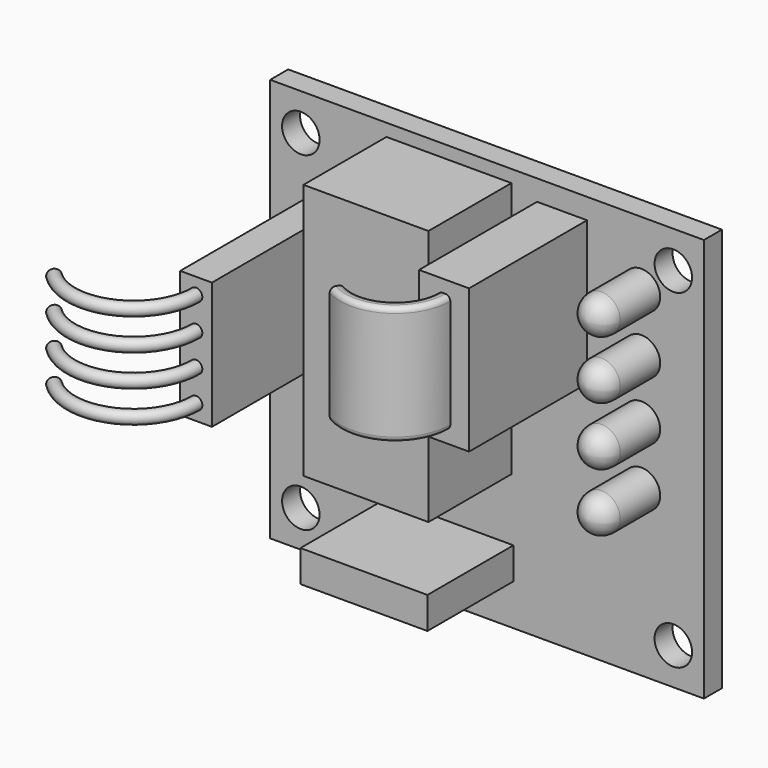
from build123d import *

# Parameters (mm, degrees)
SKETCH_W               = 34.7
SKETCH_H               = 32.3
SKETCH_R               = 1.5
PAD_DEPTH              = 1.8
SKETCH001_W            = 4
SKETCH001_H            = 11.5
PAD001_DEPTH           = 11.8
PAD002_DEPTH           = 9.5
FILLET_R               = 0.4
LINEARPATTERN_COUNT    = 4
LINEARPATTERN_PITCH    = 4.666667
SKETCH004_W            = 10
SKETCH004_H            = 20.5
PAD003_DEPTH           = 8.3
SKETCH005_W            = 2.54
SKETCH005_H            = 2.54
PAD004_DEPTH           = 16.5
SKETCH006_R            = 0.5
LINEARPATTERN001_COUNT = 4
LINEARPATTERN001_PITCH = 2.54
SKETCH008_W            = 10.16
SKETCH008_H            = 2.54
PAD005_DEPTH           = 8.6
BODY_PLACEMENT_ANGLE   = 90


with BuildPart() as part:
    # Sketch → Pad (new body)
    with BuildSketch(Plane.XY):
        Rectangle(SKETCH_W, SKETCH_H)
        with Locations((14.9, 13.2)):
            Circle(SKETCH_R, mode=Mode.SUBTRACT)
        with Locations((-14.9, 13.2)):
            Circle(SKETCH_R, mode=Mode.SUBTRACT)
        with Locations((-14.9, -13.2)):
            Circle(SKETCH_R, mode=Mode.SUBTRACT)
        with Locations((14.9, -13.2)):
            Circle(SKETCH_R, mode=Mode.SUBTRACT)
    extrude(amount=PAD_DEPTH)

    # Sketch001 (on Face10 of Pad) → Pad001 (join)
    with BuildSketch(Plane.XY.offset(1.8)):
        with Locations((6, 8.75)):
            Rectangle(SKETCH001_W, SKETCH001_H)
    extrude(amount=PAD001_DEPTH)

    # Sketch002 (on Face13 of Pad001) → Pad002 (join)
    with BuildSketch(Plane.XZ.offset(-4)):
        with BuildLine():
            ThreePointArc((5.5, 13.6), (3.8, 16.544486), (0.4, 16.544486))
            Line((-0.1, 17.410512), (0.4, 16.544486))
            ThreePointArc((6.5, 13.6), (4.3, 17.410512), (-0.1, 17.410512))
            Line((5.5, 13.6), (6.5, 13.6))
        make_face()
    extrude(amount=-PAD002_DEPTH)

    # Fillet
    fillet_edges = [part.edges().sort_by_distance(p)[0] for p in [
        (3.8, 4, 16.544486),
        (4.3, 4, 17.410512),
        (3.8, 13.5, 16.544486),
        (4.3, 13.5, 17.410512),
    ]]
    fillet(fillet_edges, radius=FILLET_R)

    # Sketch003 → Revolution (revolve)
    with BuildSketch(Plane.XZ.offset(3)):
        with BuildLine():
            ThreePointArc((13.85, 5.8), (13.41066, 6.86066), (12.35, 7.3))
            Line((12.35, 1.8), (12.35, 7.3))
            Line((13.85, 1.8), (12.35, 1.8))
            Line((13.85, 5.8), (13.85, 1.8))
        make_face()
    revolution = revolve(axis=Axis((12.35, -3, 7.3), (0, 0, 1)))

    # LinearPattern: Revolution ×4
    with Locations(*[(0, i * LINEARPATTERN_PITCH, 0) for i in range(1, LINEARPATTERN_COUNT)]):
        add(revolution)

    # Sketch004 (on Face15 of LinearPattern) → Pad003 (join)
    with BuildSketch(Plane.XY.offset(1.8)):
        with Locations((-3.05, 4.9)):
            Rectangle(SKETCH004_W, SKETCH004_H)
    extrude(amount=PAD003_DEPTH)

    # Sketch005 (on Face15 of Pad003) → Pad004 (join)
    with BuildSketch(Plane.XY.offset(1.8)):
        with Locations((-10.08, 10.08)):
            Rectangle(SKETCH005_W, SKETCH005_H)
    pad004 = extrude(amount=PAD004_DEPTH)

    # AdditivePipe: sweep along a path in Sketch007
    with BuildLine(Plane.XZ) as additivepipe_path:
        ThreePointArc((-10.08, 18.3), (-13.166583, 22.919398), (-18.615534, 21.835534))
    # Sketch006 (on Face42 of Pad004) → AdditivePipe (sweep)
    with BuildSketch(Plane.XY.offset(18.3)):
        with Locations((-10.08, 10.08)):
            Circle(SKETCH006_R)
    additivepipe = sweep(path=additivepipe_path.line)

    # LinearPattern001: Pad004, AdditivePipe ×4
    with Locations(*[(0, -i * LINEARPATTERN001_PITCH, 0) for i in range(1, LINEARPATTERN001_COUNT)]):
        add(pad004)
        add(additivepipe)

    # Sketch008 (on Face15 of LinearPattern001) → Pad005 (join)
    with BuildSketch(Plane.XY.offset(1.8)):
        with Locations((-2.97, -11.58)):
            Rectangle(SKETCH008_W, SKETCH008_H)
    extrude(amount=PAD005_DEPTH)


with BuildPart() as part_1:
    # Body placement: moved
    add(part.part.moved(Location((0, 12, -22))).rotate(Axis((0, 12, -22), (1, 0, 0)), BODY_PLACEMENT_ANGLE))


solid = part_1.part
